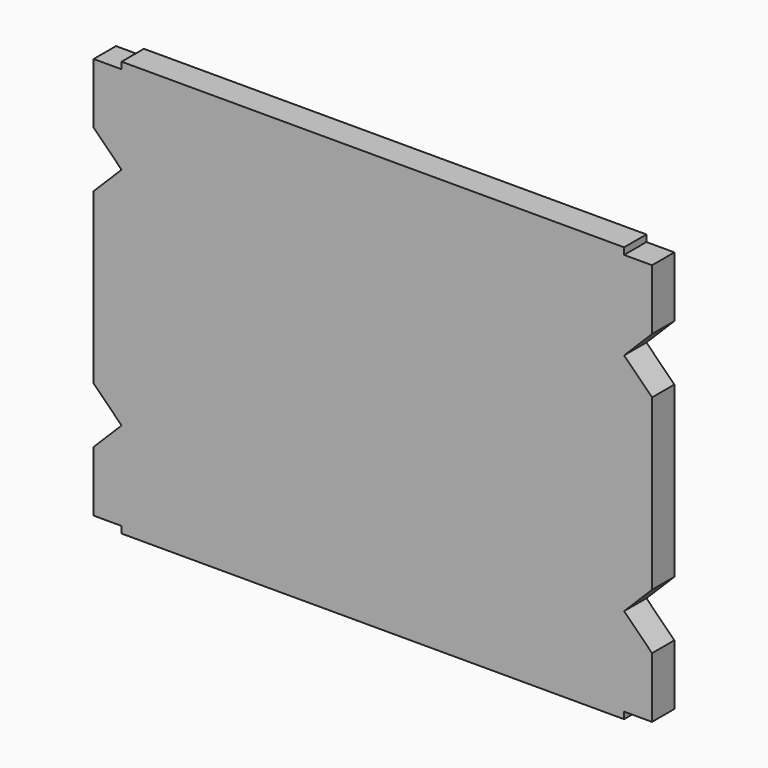
from build123d import *

# Parameters (mm, degrees)
F1_DEPTH = 25


with BuildPart() as f1:
    # F0 (on Front) → F1 (new body)
    with BuildSketch(Plane.XZ):
        Polygon((225, 186), (0, 186), (-225, 186), (-225, 180), (-250, 180), (-250, 125.809848), (-225, 100.809848), (-250, 75.809848), (-250, 0), (-250, -75.809848), (-225, -100.809848), (-250, -125.809848), (-250, -180), (-225, -180), (-225, -186), (0, -186), (225, -186), (225, -180), (250, -180), (250, -125.809848), (225, -100.809848), (250, -75.809848), (250, 0), (250, 75.809848), (225, 100.809848), (250, 125.809848), (250, 180), (225, 180), align=None)
    extrude(amount=F1_DEPTH)


solid = f1.part
